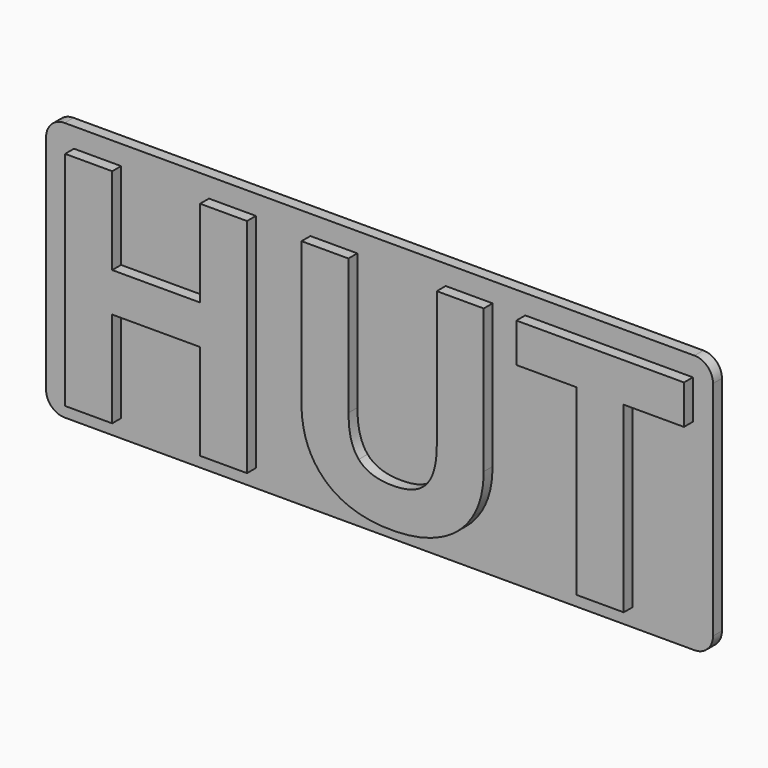
from build123d import *

# Parameters (mm, degrees)
F1_DEPTH = 6
F0_W     = 180
F0_H     = 70
F2_DEPTH = 3
F3_DEPTH = 6
F4_DEPTH = 6
F5_R     = 5


with BuildPart() as f1:
    # F0 (on Front) → F1 (new body)
    with BuildSketch(Plane.XZ):
        Polygon((-19.6854011617, -19.1057036918), (-7.0193172456, -19.1057036918), (-7.0193172456, 40.8025130914), (-19.6854011617, 40.8025130914), (-19.6854011617, 17.319121483), (-43.4048067561, 17.319121483), (-43.4048067561, 40.8025130914), (-56.1102263365, 40.8025130914), (-56.1102263365, -19.1057036918), (-43.4048067561, -19.1057036918), (-43.4048067561, 6.7509396648), (-19.6854011617, 6.7509396648), align=None)
    extrude(amount=F1_DEPTH)

    # F0 (on Front) → F2 (join)
    with BuildSketch(Plane.XZ):
        with Locations((26.3504379991, 11.104086518)):
            Rectangle(F0_W, F0_H)
        Polygon((-7.0193172456, 40.8025130914), (-7.0193172456, -19.1057036918), (-19.6854011617, -19.1057036918), (-19.6854011617, 6.7509396648), (-43.4048067561, 6.7509396648), (-43.4048067561, -19.1057036918), (-56.1102263365, -19.1057036918), (-56.1102263365, 40.8025130914), (-43.4048067561, 40.8025130914), (-43.4048067561, 17.319121483), (-19.6854011617, 17.319121483), (-19.6854011617, 40.8025130914), align=None, mode=Mode.SUBTRACT)
        with BuildLine():
            Line((44.1957177194, 40.8025130914), (56.8618016355, 40.8025130914))
            Line((56.8618016355, 40.8025130914), (56.8618016355, 2.0437718327))
            add(Edge.make_bspline(
                [(56.8618016355, 2.0437718327), (56.8618016355, -4.6039554401), (53.8919589781, -9.5995848107)],
                knots=[0, 0, 0, 1, 1, 1], degree=2))
            add(Edge.make_bspline(
                [(53.8919589781, -9.5995848107), (50.9221163208, -14.5952141813), (45.3036722649, -17.2634834121)],
                knots=[0, 0, 0, 1, 1, 1], degree=2))
            add(Edge.make_bspline(
                [(45.3036722649, -17.2634834121), (39.6852282089, -19.9317526429), (32.0278855516, -19.9317526429)],
                knots=[0, 0, 0, 1, 1, 1], degree=2))
            add(Edge.make_bspline(
                [(32.0278855516, -19.9317526429), (20.476312125, -19.9317526429), (14.0842666704, -14.0051792163)],
                knots=[0, 0, 0, 1, 1, 1], degree=2))
            add(Edge.make_bspline(
                [(14.0842666704, -14.0051792163), (7.6922212159, -8.0786057897), (7.6922212159, 2.20111449)],
                knots=[0, 0, 0, 1, 1, 1], degree=2))
            Line((7.6922212159, 2.20111449), (7.6922212159, 40.8025130914))
            Line((7.6922212159, 40.8025130914), (20.3451932439, 40.8025130914))
            Line((20.3451932439, 40.8025130914), (20.3451932439, 4.1285620424))
            add(Edge.make_bspline(
                [(20.3451932439, 4.1285620424), (20.3451932439, -2.7945148806), (23.1314694677, -6.0331512443)],
                knots=[0, 0, 0, 1, 1, 1], degree=2))
            add(Edge.make_bspline(
                [(23.1314694677, -6.0331512443), (25.9177456914, -9.2717876079), (32.3556827544, -9.2717876079)],
                knots=[0, 0, 0, 1, 1, 1], degree=2))
            add(Edge.make_bspline(
                [(32.3556827544, -9.2717876079), (38.5838296075, -9.2717876079), (41.3897736635, -6.0134834121)],
                knots=[0, 0, 0, 1, 1, 1], degree=2))
            add(Edge.make_bspline(
                [(41.3897736635, -6.0134834121), (44.1957177194, -2.7551792163), (44.1957177194, 4.2072333711)],
                knots=[0, 0, 0, 1, 1, 1], degree=2))
            Line((44.1957177194, 4.2072333711), (44.1957177194, 40.8025130914))
        make_face(mode=Mode.SUBTRACT)
        Polygon((94.6502631739, 30.2343312732), (94.6502631739, -19.1057036918), (81.9448435935, -19.1057036918), (81.9448435935, 30.2343312732), (65.6729904467, 30.2343312732), (65.6729904467, 40.8025130914), (110.9090044327, 40.8025130914), (110.9090044327, 30.2343312732), align=None, mode=Mode.SUBTRACT)
    extrude(amount=F2_DEPTH)

    # F0 (on Front) → F3 (join)
    with BuildSketch(Plane.XZ):
        with BuildLine():
            Line((56.8618016355, 2.0437718327), (56.8618016355, 40.8025130914))
            Line((56.8618016355, 40.8025130914), (44.1957177194, 40.8025130914))
            Line((44.1957177194, 40.8025130914), (44.1957177194, 4.2072333711))
            add(Edge.make_bspline(
                [(41.3897736635, -6.0134834121), (44.1957177194, -2.7551792163), (44.1957177194, 4.2072333711)],
                knots=[0, 0, 0, 1, 1, 1], degree=2))
            add(Edge.make_bspline(
                [(32.3556827544, -9.2717876079), (38.5838296075, -9.2717876079), (41.3897736635, -6.0134834121)],
                knots=[0, 0, 0, 1, 1, 1], degree=2))
            add(Edge.make_bspline(
                [(23.1314694677, -6.0331512443), (25.9177456914, -9.2717876079), (32.3556827544, -9.2717876079)],
                knots=[0, 0, 0, 1, 1, 1], degree=2))
            add(Edge.make_bspline(
                [(20.3451932439, 4.1285620424), (20.3451932439, -2.7945148806), (23.1314694677, -6.0331512443)],
                knots=[0, 0, 0, 1, 1, 1], degree=2))
            Line((20.3451932439, 4.1285620424), (20.3451932439, 40.8025130914))
            Line((20.3451932439, 40.8025130914), (7.6922212159, 40.8025130914))
            Line((7.6922212159, 40.8025130914), (7.6922212159, 2.20111449))
            add(Edge.make_bspline(
                [(14.0842666704, -14.0051792163), (7.6922212159, -8.0786057897), (7.6922212159, 2.20111449)],
                knots=[0, 0, 0, 1, 1, 1], degree=2))
            add(Edge.make_bspline(
                [(32.0278855516, -19.9317526429), (20.476312125, -19.9317526429), (14.0842666704, -14.0051792163)],
                knots=[0, 0, 0, 1, 1, 1], degree=2))
            add(Edge.make_bspline(
                [(45.3036722649, -17.2634834121), (39.6852282089, -19.9317526429), (32.0278855516, -19.9317526429)],
                knots=[0, 0, 0, 1, 1, 1], degree=2))
            add(Edge.make_bspline(
                [(53.8919589781, -9.5995848107), (50.9221163208, -14.5952141813), (45.3036722649, -17.2634834121)],
                knots=[0, 0, 0, 1, 1, 1], degree=2))
            add(Edge.make_bspline(
                [(56.8618016355, 2.0437718327), (56.8618016355, -4.6039554401), (53.8919589781, -9.5995848107)],
                knots=[0, 0, 0, 1, 1, 1], degree=2))
        make_face()
    extrude(amount=F3_DEPTH)

    # F0 (on Front) → F4 (join)
    with BuildSketch(Plane.XZ):
        Polygon((81.9448435935, -19.1057036918), (94.6502631739, -19.1057036918), (94.6502631739, 30.2343312732), (110.9090044327, 30.2343312732), (110.9090044327, 40.8025130914), (65.6729904467, 40.8025130914), (65.6729904467, 30.2343312732), (81.9448435935, 30.2343312732), align=None)
    extrude(amount=F4_DEPTH)

    # F5
    f5_edges = [f1.edges().sort_by_distance(p)[0] for p in [
        (-63.649562, -1.5, 46.104087),
        (116.350438, -1.5, 46.104087),
        (-63.649562, -1.5, -23.895913),
        (116.350438, -1.5, -23.895913),
    ]]
    fillet(f5_edges, radius=F5_R)


solid = f1.part
